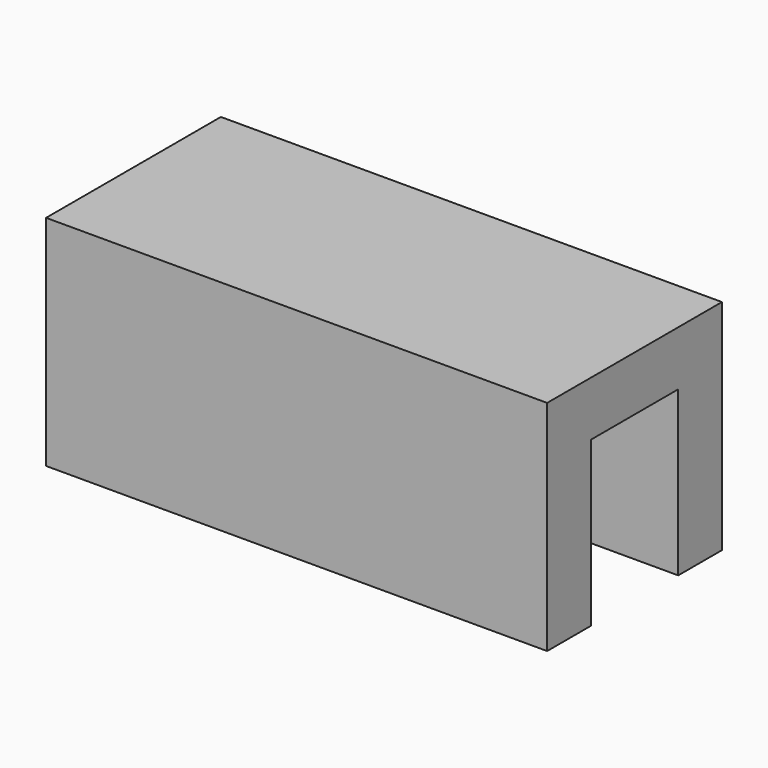
from build123d import *

# Parameters (mm, degrees)
F0_W     = 116.511441
F0_H     = 50.8
F1_DEPTH = 12.7
F2_W     = 116.511441
F2_H     = 12.7
F3_DEPTH = 38.1
F4_W     = 116.511441
F4_H     = 12.7
F5_DEPTH = 38.1


with BuildPart() as f1:
    # F0 (on Top) → F1 (new body)
    with BuildSketch(Plane.XY):
        with Locations((-1.010946, 25.4)):
            Rectangle(F0_W, F0_H)
    extrude(amount=F1_DEPTH)

    # F2 (on face) → F3 (join)
    with BuildSketch(Plane(origin=(0, 0, 0), x_dir=(1, 0, 0), z_dir=(0, 0, -1))):
        with Locations((-1.010946, -6.35)):
            Rectangle(F2_W, F2_H)
    extrude(amount=F3_DEPTH)

    # F4 (on face) → F5 (join)
    with BuildSketch(Plane(origin=(0, 0, 0), x_dir=(1, 0, 0), z_dir=(0, 0, -1))):
        with Locations((-1.010946, -44.45)):
            Rectangle(F4_W, F4_H)
    extrude(amount=F5_DEPTH)


solid = f1.part
